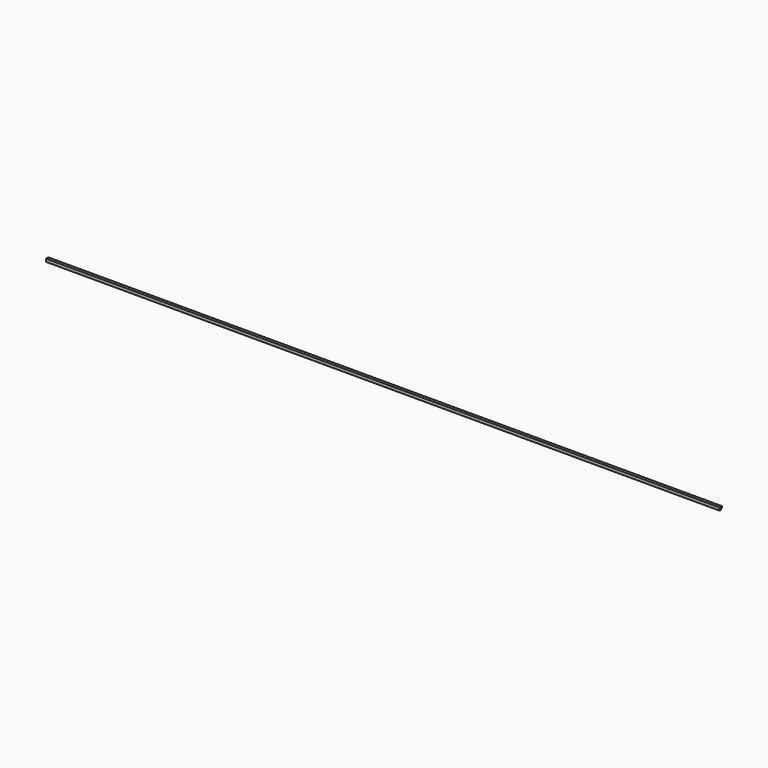
from build123d import *

# Parameters (mm, degrees)
F1_DEPTH = 4180.0018


with BuildPart() as f1:
    # F0 (on Right) → F1 (new body)
    with BuildSketch(Plane.YZ):
        with BuildLine():
            Line((17.011974, 3.556973), (-0.948538, 3.556973))
            Line((-0.948538, 3.556973), (-0.948538, -14.403539))
            Line((-0.948538, -14.403539), (8.031718, -14.403539))
            ThreePointArc((8.031718, -14.403539), (10.661974, -8.053539), (17.011974, -5.423283))
            Line((17.011974, -5.423283), (17.011974, 3.556973))
        make_face()
    extrude(amount=-F1_DEPTH)


solid = f1.part
